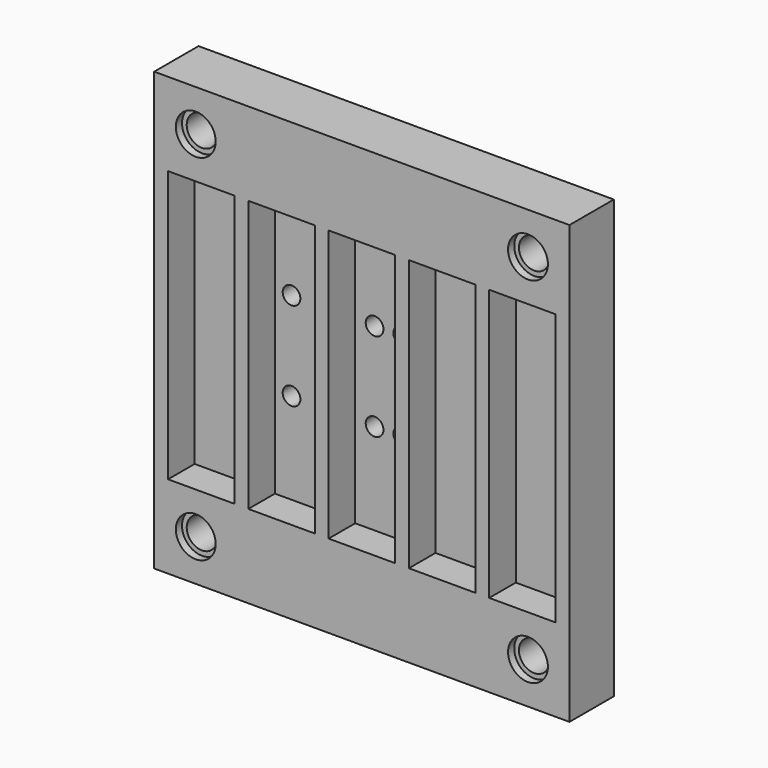
from build123d import *

# Parameters (mm, degrees)
SKETCH008_W         = 75
SKETCH008_H         = 79
PAD003_DEPTH        = 4
SKETCH009_W         = 75
SKETCH009_H         = 15
PAD004_DEPTH        = 6
SKETCH010_R         = 1.6
POCKET005_DEPTH     = 222.779427
SKETCH011_R         = 2.75
POCKET006_DEPTH     = 10.001
SKETCH012_W         = 2.5
SKETCH012_H         = 49
PAD005_DEPTH        = 6
LINEARPATTERN_COUNT = 6
LINEARPATTERN_PITCH = 14.5
SKETCH015_R         = 3.6
POCKET008_DEPTH     = 1.4


with BuildPart() as part:
    # Sketch008 → Pad003 (new body)
    with BuildSketch(Plane.XZ):
        with Locations((-37.5, 39.5)):
            Rectangle(SKETCH008_W, SKETCH008_H)
    extrude(amount=PAD003_DEPTH)

    # Sketch009 (on Face6 of Pad003) → Pad004 (join)
    with BuildSketch(Plane.XZ.offset(4)):
        with Locations((-37.5, 71.5)):
            Rectangle(SKETCH009_W, SKETCH009_H)
        with Locations((-37.5, 7.5)):
            Rectangle(SKETCH009_W, SKETCH009_H)
    extrude(amount=PAD004_DEPTH)

    # Sketch010 (on Face8 of Pad004) → Pocket005 (cut, through all)
    with BuildSketch(Plane.XZ.offset(4)):
        with Locations((-55, 47.5)):
            Circle(SKETCH010_R)
        with Locations((-40, 47.5)):
            Circle(SKETCH010_R)
        with Locations((-40, 31.5)):
            Circle(SKETCH010_R)
        with Locations((-55, 31.5)):
            Circle(SKETCH010_R)
    pocket005 = extrude(amount=-POCKET005_DEPTH, mode=Mode.SUBTRACT)

    # Mirrored: Pocket005 across Sketch010 Axis12
    add(pocket005.mirror(Plane(origin=(-37.5, -4, 64), x_dir=(0, -1, 0), z_dir=(1, 0, 0))), mode=Mode.SUBTRACT)

    # Sketch011 (on Face23 of Mirrored) → Pocket006 (cut, through all)
    with BuildSketch(Plane.XZ.offset(10)):
        with Locations((-67.5, 71.5)):
            Circle(SKETCH011_R)
        with Locations((-7.5, 71.5)):
            Circle(SKETCH011_R)
        with Locations((-7.5, 7.5)):
            Circle(SKETCH011_R)
        with Locations((-67.5, 7.5)):
            Circle(SKETCH011_R)
    extrude(amount=-POCKET006_DEPTH, mode=Mode.SUBTRACT)

    # Sketch012 (on Face8 of Pocket006) → Pad005 (join)
    with BuildSketch(Plane.XZ.offset(4)):
        with Locations((-73.75, 39.5)):
            Rectangle(SKETCH012_W, SKETCH012_H)
    pad005 = extrude(amount=PAD005_DEPTH)

    # LinearPattern: Pad005 ×6
    with Locations(*[(i * LINEARPATTERN_PITCH, 0, 0) for i in range(1, LINEARPATTERN_COUNT)]):
        add(pad005)

    # Sketch015 (on Face25 of LinearPattern) → Pocket008 (cut)
    with BuildSketch(Plane.XZ.offset(10)):
        with Locations((-67.5, 71.5)):
            Circle(SKETCH015_R)
        with Locations((-7.5, 71.5)):
            Circle(SKETCH015_R)
        with Locations((-7.5, 7.5)):
            Circle(SKETCH015_R)
        with Locations((-67.5, 7.5)):
            Circle(SKETCH015_R)
    extrude(amount=-POCKET008_DEPTH, mode=Mode.SUBTRACT)


solid = part.part
